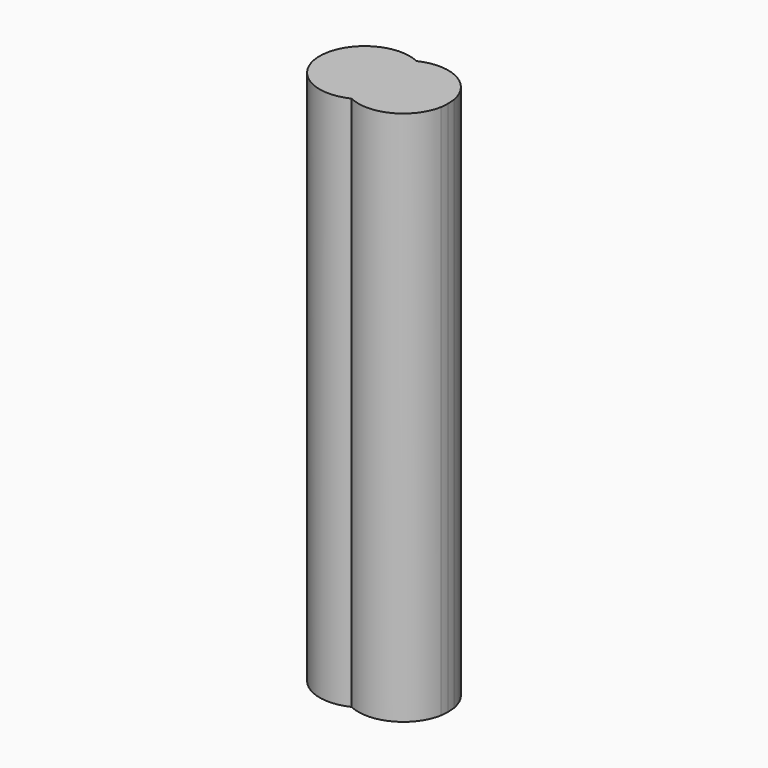
from build123d import *

# Parameters (mm, degrees)
F1_DEPTH = 25


with BuildPart() as f1:
    # F0 (on Top) → F1 (new body)
    with BuildSketch(Plane.XY):
        with BuildLine():
            ThreePointArc((2.9746431824, -0.3892273592), (2.9936540838, -0.1950262196), (3, 0))
            ThreePointArc((3, 0), (2.9936540838, 0.1950262196), (2.9746431824, 0.3892273592))
            ThreePointArc((2.9746431824, 0.3892273592), (1.8618249989, 1.8724282704), (0.0077205477, 1.8957935577))
            ThreePointArc((0.0077205477, 1.8957935577), (0.8802141699, 1.1209485987), (1.2044117487, 0))
            ThreePointArc((1.2044117487, 0), (0.8802141699, -1.1209485987), (0.0077205477, -1.8957935577))
            ThreePointArc((0.0077205477, -1.8957935577), (1.8618249989, -1.8724282704), (2.9746431824, -0.3892273592))
        make_face()
        with BuildLine():
            ThreePointArc((0.0077205477, -1.8957935577), (-1.1889706532, 0), (0.0077205477, 1.8957935577))
            ThreePointArc((0.0077205477, 1.8957935577), (-2.9955882513, 0), (0.0077205477, -1.8957935577))
        make_face()
        with BuildLine():
            ThreePointArc((1.2044117487, 0), (0.8802141699, 1.1209485987), (0.0077205477, 1.8957935577))
            ThreePointArc((0.0077205477, 1.8957935577), (-1.1889706532, 0), (0.0077205477, -1.8957935577))
            ThreePointArc((0.0077205477, -1.8957935577), (0.8802141699, -1.1209485987), (1.2044117487, 0))
        make_face()
    extrude(amount=F1_DEPTH)


solid = f1.part
